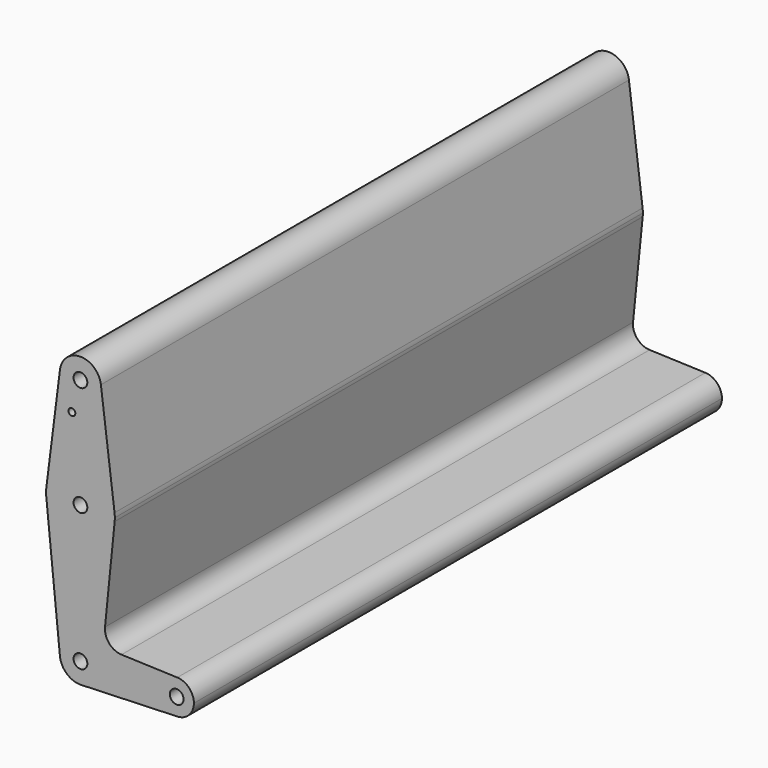
from build123d import *

# Parameters (mm, degrees)
F0_R     = 3.175
F0_R_2   = 1.5875
F1_DEPTH = 304.8


with BuildPart() as f1:
    # F0 (on Front) → F1 (new body)
    with BuildSketch(Plane.XZ):
        with BuildLine():
            ThreePointArc((-51.0554, 58.32966), (-42.20159, 47.63273), (-32.080107, 57.139035))
            ThreePointArc((-32.080107, 57.139035), (-32.098802, 57.735518), (-32.154814, 58.32966))
            ThreePointArc((-32.154814, 58.32966), (-41.605107, 66.664035), (-51.0554, 58.32966))
        make_face()
        with Locations((-41.605107, 57.139035)):
            Circle(F0_R, mode=Mode.SUBTRACT)
        with BuildLine():
            ThreePointArc((-32.154814, 58.32966), (-32.098802, 57.735518), (-32.080107, 57.139035))
            ThreePointArc((-32.080107, 57.139035), (-42.20159, 47.63273), (-51.0554, 58.32966))
            Line((-51.0554, 58.32966), (-57.355595, 8.32341))
            ThreePointArc((-57.355595, 8.32341), (-41.605107, 22.214035), (-25.854618, 8.32341))
            Line((-25.854618, 8.32341), (-32.154814, 58.32966))
        make_face()
        with Locations((-45.544442, 42.864235)):
            Circle(F0_R_2, mode=Mode.SUBTRACT)
        with BuildLine():
            ThreePointArc((-25.730107, 6.339035), (-25.761265, 7.333174), (-25.854618, 8.32341))
            ThreePointArc((-25.854618, 8.32341), (-41.605107, 22.214035), (-57.355595, 8.32341))
            ThreePointArc((-57.355595, 8.32341), (-57.478851, 6.53874), (-57.400532, 4.751535))
            ThreePointArc((-57.400532, 4.751535), (-41.605107, -9.535965), (-25.809681, 4.751535))
            ThreePointArc((-25.809681, 4.751535), (-25.750013, 5.544288), (-25.730107, 6.339035))
        make_face()
        with Locations((-41.605107, 6.339035)):
            Circle(F0_R, mode=Mode.SUBTRACT)
        with BuildLine():
            ThreePointArc((-25.809681, 4.751535), (-41.605107, -9.535965), (-57.400532, 4.751535))
            Line((-57.400532, 4.751535), (-51.082362, -58.113465))
            ThreePointArc((-51.082362, -58.113465), (-42.081955, -47.647909), (-32.080107, -57.160965))
            ThreePointArc((-32.080107, -57.160965), (-34.750698, -63.774792), (-41.264928, -66.679888))
            Line((-41.264928, -66.679888), (3.128375, -65.093401))
            ThreePointArc((3.128375, -65.093401), (-5.092607, -57.161504), (3.127299, -49.22849))
            Line((3.127299, -49.22849), (-22.636779, -48.311259))
            ThreePointArc((-22.636779, -48.311259), (-28.343903, -45.593502), (-30.264271, -39.571073))
            Line((-30.264271, -39.571073), (-25.809681, 4.751535))
        make_face()
        with BuildLine():
            ThreePointArc((-32.080107, -57.160965), (-42.081955, -47.647909), (-51.082362, -58.113465))
            ThreePointArc((-51.082362, -58.113465), (-47.86749, -64.337885), (-41.264928, -66.679888))
            ThreePointArc((-41.264928, -66.679888), (-34.750698, -63.774792), (-32.080107, -57.160965))
        make_face()
        with Locations((-41.605107, -57.160965)):
            Circle(F0_R, mode=Mode.SUBTRACT)
        with BuildLine():
            ThreePointArc((3.127299, -49.22849), (-5.092607, -57.161504), (3.128375, -65.093401))
            ThreePointArc((3.128375, -65.093401), (8.5569, -62.672488), (10.782393, -57.160965))
            ThreePointArc((10.782393, -57.160965), (8.556526, -51.649055), (3.127299, -49.22849))
        make_face()
        with Locations((2.844893, -57.160965)):
            Circle(F0_R, mode=Mode.SUBTRACT)
    extrude(amount=F1_DEPTH)


solid = f1.part
